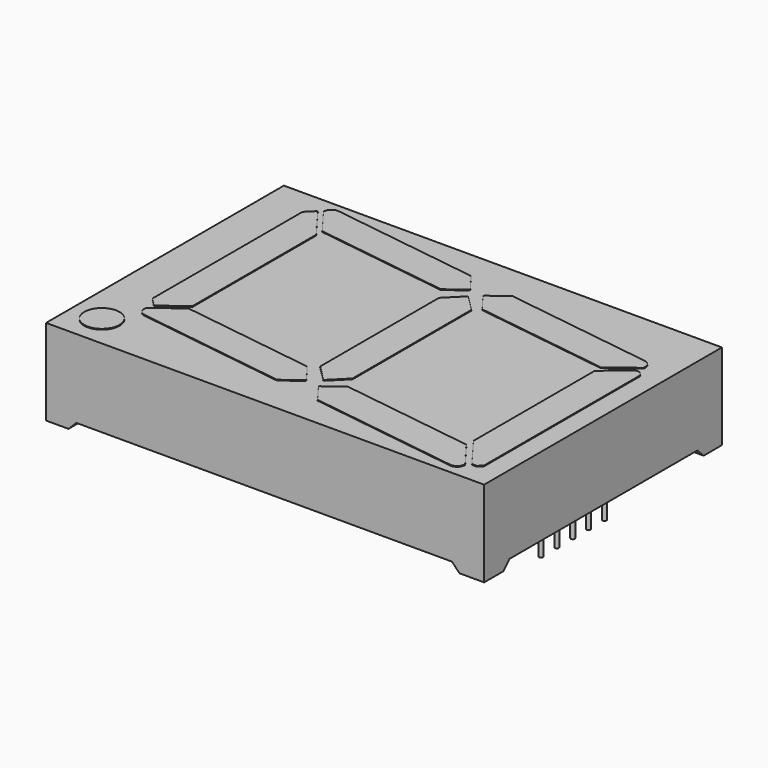
from build123d import *

# Parameters (mm, degrees)
CYLINDER_R                 = 0.25
CYLINDER_DEPTH             = 8
CYLINDER001_R              = 0.25
CYLINDER001_DEPTH          = 8
CYLINDER002_R              = 0.25
CYLINDER002_DEPTH          = 8
CYLINDER003_R              = 0.25
CYLINDER003_DEPTH          = 8
CYLINDER004_R              = 0.25
CYLINDER004_DEPTH          = 8
CYLINDER005_R              = 0.25
CYLINDER005_DEPTH          = 8
CYLINDER006_R              = 0.25
CYLINDER006_DEPTH          = 8
CYLINDER007_R              = 0.25
CYLINDER007_DEPTH          = 8
CYLINDER008_R              = 0.25
CYLINDER008_DEPTH          = 8
CYLINDER009_R              = 0.25
CYLINDER009_DEPTH          = 8
BOX001_W                   = 44
BOX001_H                   = 50
BOX001_DEPTH               = 2
CHAMFER002_SIZE            = 1
CHAMFER003_SIZE            = 1
CHAMFER003_PLACEMENT_ANGLE = -90
BOX_W                      = 32
BOX_H                      = 60
BOX_DEPTH                  = 2
CHAMFER_SIZE               = 1
CHAMFER001_SIZE            = 1
CHAMFER001_PLACEMENT_ANGLE = -90
SKETCH_W                   = 56
SKETCH_H                   = 38
PAD_DEPTH                  = 11
BOX002_W                   = 23
BOX002_H                   = 4.15
BOX002_DEPTH               = 1
CHAMFER018_SIZE            = 2
CHAMFER019_SIZE            = 2
CHAMFER020_SIZE            = 2
CHAMFER021_SIZE            = 2
BOX003_W                   = 4.15
BOX003_H                   = 22.25
BOX003_DEPTH               = 1
BOX003_PLACEMENT_ANGLE     = -8
CHAMFER006_SIZE            = 3
CHAMFER014_SIZE            = 2
CHAMFER015_SIZE            = 2
FILLET002_R                = 1
BOX005_W                   = 4.15
BOX005_H                   = 22.25
BOX005_DEPTH               = 1
BOX005_PLACEMENT_ANGLE     = -8
CHAMFER005_SIZE            = 3
FILLET001_R                = 1
CHAMFER010_SIZE            = 2
CHAMFER011_SIZE            = 2
BOX004_W                   = 4.15
BOX004_H                   = 22.25
BOX004_DEPTH               = 1
BOX004_PLACEMENT_ANGLE     = -8
CHAMFER004_SIZE            = 3
FILLET_R                   = 1
CHAMFER008_SIZE            = 2
CHAMFER009_SIZE            = 2
BOX006_W                   = 4.15
BOX006_H                   = 22.25
BOX006_DEPTH               = 1
BOX006_PLACEMENT_ANGLE     = -8
CHAMFER007_SIZE            = 3
CHAMFER012_SIZE            = 2
CHAMFER013_SIZE            = 2
FILLET003_R                = 1
BOX007_W                   = 26
BOX007_H                   = 4.15
BOX007_DEPTH               = 1
CHAMFER026_SIZE2           = 2.6
CHAMFER026_SIZE            = 3.2
CHAMFER027_SIZE            = 0.5
CHAMFER028_SIZE2           = 3
CHAMFER028_SIZE            = 4
CHAMFER029_SIZE            = 0.5
BOX008_W                   = 26
BOX008_H                   = 4.15
BOX008_DEPTH               = 1
CHAMFER022_SIZE2           = 4
CHAMFER022_SIZE            = 3
CHAMFER023_SIZE            = 1
CHAMFER024_SIZE2           = 3
CHAMFER024_SIZE            = 2.2
CHAMFER025_SIZE            = 1
CYLINDER010_R              = 2.25
CYLINDER010_DEPTH          = 1
FUSION_PLACEMENT_ANGLE     = -90


with BuildPart() as pin001:
    # Cylinder → Cylinder (new body)
    with BuildSketch(Plane.XY.offset(-4)):
        Circle(CYLINDER_R)
    extrude(amount=CYLINDER_DEPTH)


with BuildPart() as pin002:
    # Cylinder001 → Cylinder001 (new body)
    with BuildSketch(Plane(origin=(0, -2.54, -4), x_dir=(1, 0, 0), z_dir=(0, 0, 1))):
        Circle(CYLINDER001_R)
    extrude(amount=CYLINDER001_DEPTH)


with BuildPart() as pin003:
    # Cylinder002 → Cylinder002 (new body)
    with BuildSketch(Plane(origin=(0, -5.08, -4), x_dir=(1, 0, 0), z_dir=(0, 0, 1))):
        Circle(CYLINDER002_R)
    extrude(amount=CYLINDER002_DEPTH)


with BuildPart() as pin004:
    # Cylinder003 → Cylinder003 (new body)
    with BuildSketch(Plane(origin=(0, -7.62, -4), x_dir=(1, 0, 0), z_dir=(0, 0, 1))):
        Circle(CYLINDER003_R)
    extrude(amount=CYLINDER003_DEPTH)


with BuildPart() as pin005:
    # Cylinder004 → Cylinder004 (new body)
    with BuildSketch(Plane(origin=(0, -10.16, -4), x_dir=(1, 0, 0), z_dir=(0, 0, 1))):
        Circle(CYLINDER004_R)
    extrude(amount=CYLINDER004_DEPTH)


with BuildPart() as pin006:
    # Cylinder005 → Cylinder005 (new body)
    with BuildSketch(Plane(origin=(48.26, -10.16, -4), x_dir=(1, 0, 0), z_dir=(0, 0, 1))):
        Circle(CYLINDER005_R)
    extrude(amount=CYLINDER005_DEPTH)


with BuildPart() as pin007:
    # Cylinder006 → Cylinder006 (new body)
    with BuildSketch(Plane(origin=(48.26, -7.62, -4), x_dir=(1, 0, 0), z_dir=(0, 0, 1))):
        Circle(CYLINDER006_R)
    extrude(amount=CYLINDER006_DEPTH)


with BuildPart() as pin008:
    # Cylinder007 → Cylinder007 (new body)
    with BuildSketch(Plane(origin=(48.26, -5.08, -4), x_dir=(1, 0, 0), z_dir=(0, 0, 1))):
        Circle(CYLINDER007_R)
    extrude(amount=CYLINDER007_DEPTH)


with BuildPart() as pin009:
    # Cylinder008 → Cylinder008 (new body)
    with BuildSketch(Plane(origin=(48.26, -2.56, -4), x_dir=(1, 0, 0), z_dir=(0, 0, 1))):
        Circle(CYLINDER008_R)
    extrude(amount=CYLINDER008_DEPTH)


with BuildPart() as pin010:
    # Cylinder009 → Cylinder009 (new body)
    with BuildSketch(Plane(origin=(48.26, 0, -4), x_dir=(1, 0, 0), z_dir=(0, 0, 1))):
        Circle(CYLINDER009_R)
    extrude(amount=CYLINDER009_DEPTH)


with BuildPart() as chamfer003:
    # Box001 → Box001 (new body)
    with BuildSketch(Plane(origin=(-17, -1, -1), x_dir=(1, 0, 0), z_dir=(0, 0, 1))):
        with Locations((22, 25)):
            Rectangle(BOX001_W, BOX001_H)
    extrude(amount=BOX001_DEPTH)

    # Chamfer002
    chamfer002_edges = [chamfer003.edges().sort_by_distance(p)[0] for p in [
        (5, -1, 1),
    ]]
    chamfer(chamfer002_edges, length=CHAMFER002_SIZE)

    # Chamfer003
    chamfer003_edges = [chamfer003.edges().sort_by_distance(p)[0] for p in [
        (5, 49, 1),
    ]]
    chamfer(chamfer003_edges, length=CHAMFER003_SIZE)


with BuildPart() as chamfer003_1:
    # Chamfer003 placement: moved
    add(chamfer003.part.rotate(Axis((0, 0, 0), (0, 0, 1)), CHAMFER003_PLACEMENT_ANGLE))


with BuildPart() as chamfer001:
    # Box → Box (new body)
    with BuildSketch(Plane(origin=(-11, -6, -1), x_dir=(1, 0, 0), z_dir=(0, 0, 1))):
        with Locations((16, 30)):
            Rectangle(BOX_W, BOX_H)
    extrude(amount=BOX_DEPTH)

    # Chamfer
    chamfer_edges = [chamfer001.edges().sort_by_distance(p)[0] for p in [
        (21, 24, 1),
    ]]
    chamfer(chamfer_edges, length=CHAMFER_SIZE)

    # Chamfer001
    chamfer001_edges = [chamfer001.edges().sort_by_distance(p)[0] for p in [
        (-11, 24, 1),
    ]]
    chamfer(chamfer001_edges, length=CHAMFER001_SIZE)


with BuildPart() as chamfer001_1:
    # Chamfer001 placement: moved
    add(chamfer001.part.rotate(Axis((0, 0, 0), (0, 0, 1)), CHAMFER001_PLACEMENT_ANGLE))


with BuildPart() as cut001:
    # Sketch → Pad (new body)
    with BuildSketch(Plane.XY):
        with Locations((24.13, -5.08)):
            Rectangle(SKETCH_W, SKETCH_H)
    extrude(amount=PAD_DEPTH)

    # Cut: cut Chamfer001
    add(chamfer001_1.part, mode=Mode.SUBTRACT)

    # Cut001: cut Chamfer003
    add(chamfer003_1.part, mode=Mode.SUBTRACT)


with BuildPart() as chamfer021:
    # Box002 → Box002 (new body)
    with BuildSketch(Plane(origin=(21, 23, 10.1), x_dir=(1, 0, 0), z_dir=(0, 0, 1))):
        with Locations((11.5, 2.075)):
            Rectangle(BOX002_W, BOX002_H)
    extrude(amount=BOX002_DEPTH)

    # Chamfer018
    chamfer018_edges = [chamfer021.edges().sort_by_distance(p)[0] for p in [
        (21, 23, 10.6),
    ]]
    chamfer(chamfer018_edges, length=CHAMFER018_SIZE)

    # Chamfer019
    chamfer019_edges = [chamfer021.edges().sort_by_distance(p)[0] for p in [
        (21, 27.15, 10.6),
    ]]
    chamfer(chamfer019_edges, length=CHAMFER019_SIZE)

    # Chamfer020
    chamfer020_edges = [chamfer021.edges().sort_by_distance(p)[0] for p in [
        (44, 27.15, 10.6),
    ]]
    chamfer(chamfer020_edges, length=CHAMFER020_SIZE)

    # Chamfer021
    chamfer021_edges = [chamfer021.edges().sort_by_distance(p)[0] for p in [
        (44, 23, 10.6),
    ]]
    chamfer(chamfer021_edges, length=CHAMFER021_SIZE)


with BuildPart() as chamfer021_1:
    # Chamfer021 placement: moved
    add(chamfer021.part.moved(Location((-27.5, 0.5, 0))))


with BuildPart() as fillet002:
    # Box003 → Box003 (new body)
    with BuildSketch(Plane.XY):
        with Locations((2.075, 11.125)):
            Rectangle(BOX003_W, BOX003_H)
    extrude(amount=BOX003_DEPTH)


with BuildPart() as fillet002_1:
    # Box003 placement: moved
    add(fillet002.part.moved(Location((-10, 27, 10.1))).rotate(Axis((-10, 27, 10.1), (0, 0, 1)), BOX003_PLACEMENT_ANGLE))

    # Chamfer006
    chamfer006_edges = [fillet002_1.edges().sort_by_distance(p)[0] for p in [
        (-2.793786, 48.455896, 10.6),
    ]]
    chamfer(chamfer006_edges, length=CHAMFER006_SIZE)

    # Chamfer014
    chamfer014_edges = [fillet002_1.edges().sort_by_distance(p)[0] for p in [
        (-10, 27, 10.6),
    ]]
    chamfer(chamfer014_edges, length=CHAMFER014_SIZE)

    # Chamfer015
    chamfer015_edges = [fillet002_1.edges().sort_by_distance(p)[0] for p in [
        (-5.890388, 26.422432, 10.6),
    ]]
    chamfer(chamfer015_edges, length=CHAMFER015_SIZE)

    # Fillet002
    fillet002_edges = [fillet002_1.edges().sort_by_distance(p)[0] for p in [
        (-6.903399, 49.033465, 10.6),
    ]]
    fillet(fillet002_edges, radius=FILLET002_R)


with BuildPart() as fillet002_2:
    # Fillet002 placement: moved
    add(fillet002_1.part.moved(Location((0.35, 0, 0))))


with BuildPart() as chamfer011:
    # Box005 → Box005 (new body)
    with BuildSketch(Plane.XY):
        with Locations((2.075, 11.125)):
            Rectangle(BOX005_W, BOX005_H)
    extrude(amount=BOX005_DEPTH)


with BuildPart() as chamfer011_1:
    # Box005 placement: moved
    add(chamfer011.part.moved(Location((11, 3, 10.1))).rotate(Axis((11, 3, 10.1), (0, 0, 1)), BOX005_PLACEMENT_ANGLE))

    # Chamfer005
    chamfer005_edges = [chamfer011_1.edges().sort_by_distance(p)[0] for p in [
        (11, 3, 10.6),
    ]]
    chamfer(chamfer005_edges, length=CHAMFER005_SIZE)

    # Fillet001
    fillet001_edges = [chamfer011_1.edges().sort_by_distance(p)[0] for p in [
        (15.109612, 2.422432, 10.6),
    ]]
    fillet(fillet001_edges, radius=FILLET001_R)

    # Chamfer010
    chamfer010_edges = [chamfer011_1.edges().sort_by_distance(p)[0] for p in [
        (18.206214, 24.455896, 10.6),
    ]]
    chamfer(chamfer010_edges, length=CHAMFER010_SIZE)

    # Chamfer011
    chamfer011_edges = [chamfer011_1.edges().sort_by_distance(p)[0] for p in [
        (14.096601, 25.033465, 10.6),
    ]]
    chamfer(chamfer011_edges, length=CHAMFER011_SIZE)


with BuildPart() as chamfer011_2:
    # Chamfer011 placement: moved
    add(chamfer011_1.part.moved(Location((1.5, -0.55, 0))))


with BuildPart() as chamfer009:
    # Box004 → Box004 (new body)
    with BuildSketch(Plane.XY):
        with Locations((2.075, 11.125)):
            Rectangle(BOX004_W, BOX004_H)
    extrude(amount=BOX004_DEPTH)


with BuildPart() as chamfer009_1:
    # Box004 placement: moved
    add(chamfer009.part.moved(Location((-13, 3, 10.1))).rotate(Axis((-13, 3, 10.1), (0, 0, 1)), BOX004_PLACEMENT_ANGLE))

    # Chamfer004
    chamfer004_edges = [chamfer009_1.edges().sort_by_distance(p)[0] for p in [
        (-8.890388, 2.422432, 10.6),
    ]]
    chamfer(chamfer004_edges, length=CHAMFER004_SIZE)

    # Fillet
    fillet_edges = [chamfer009_1.edges().sort_by_distance(p)[0] for p in [
        (-13, 3, 10.6),
    ]]
    fillet(fillet_edges, radius=FILLET_R)

    # Chamfer008
    chamfer008_edges = [chamfer009_1.edges().sort_by_distance(p)[0] for p in [
        (-9.903399, 25.033465, 10.6),
    ]]
    chamfer(chamfer008_edges, length=CHAMFER008_SIZE)

    # Chamfer009
    chamfer009_edges = [chamfer009_1.edges().sort_by_distance(p)[0] for p in [
        (-5.793786, 24.455896, 10.6),
    ]]
    chamfer(chamfer009_edges, length=CHAMFER009_SIZE)


with BuildPart() as fillet003:
    # Box006 → Box006 (new body)
    with BuildSketch(Plane.XY):
        with Locations((2.075, 11.125)):
            Rectangle(BOX006_W, BOX006_H)
    extrude(amount=BOX006_DEPTH)


with BuildPart() as fillet003_1:
    # Box006 placement: moved
    add(fillet003.part.moved(Location((15, 27, 10.1))).rotate(Axis((15, 27, 10.1), (0, 0, 1)), BOX006_PLACEMENT_ANGLE))

    # Chamfer007
    chamfer007_edges = [fillet003_1.edges().sort_by_distance(p)[0] for p in [
        (18.096601, 49.033465, 10.6),
    ]]
    chamfer(chamfer007_edges, length=CHAMFER007_SIZE)

    # Chamfer012
    chamfer012_edges = [fillet003_1.edges().sort_by_distance(p)[0] for p in [
        (19.109612, 26.422432, 10.6),
    ]]
    chamfer(chamfer012_edges, length=CHAMFER012_SIZE)

    # Chamfer013
    chamfer013_edges = [fillet003_1.edges().sort_by_distance(p)[0] for p in [
        (15, 27, 10.6),
    ]]
    chamfer(chamfer013_edges, length=CHAMFER013_SIZE)

    # Fillet003
    fillet003_edges = [fillet003_1.edges().sort_by_distance(p)[0] for p in [
        (22.206214, 48.455896, 10.6),
    ]]
    fillet(fillet003_edges, radius=FILLET003_R)


with BuildPart() as fillet003_2:
    # Fillet003 placement: moved
    add(fillet003_1.part.moved(Location((0.9, -0.6, 0))))


with BuildPart() as chamfer029:
    # Box007 → Box007 (new body)
    with BuildSketch(Plane(origin=(-4.5, 45.5, 11.1), x_dir=(1, 0, 0), z_dir=(0, 0, 1))):
        with Locations((13, 2.075)):
            Rectangle(BOX007_W, BOX007_H)
    extrude(amount=BOX007_DEPTH)

    # Chamfer026
    chamfer026_edges = [chamfer029.edges().sort_by_distance(p)[0] for p in [
        (-4.5, 45.5, 11.6),
    ]]
    chamfer026_side = chamfer029.faces().sort_by_distance((-4.5, 47.575, 11.6))[0]
    chamfer(chamfer026_edges, length=CHAMFER026_SIZE, length2=CHAMFER026_SIZE2, reference=chamfer026_side)

    # Chamfer027
    chamfer027_edges = [chamfer029.edges().sort_by_distance(p)[0] for p in [
        (-4.5, 49.65, 11.6),
    ]]
    chamfer(chamfer027_edges, length=CHAMFER027_SIZE)

    # Chamfer028
    chamfer028_edges = [chamfer029.edges().sort_by_distance(p)[0] for p in [
        (21.5, 45.5, 11.6),
    ]]
    chamfer028_side = chamfer029.faces().sort_by_distance((9.8, 45.5, 11.6))[0]
    chamfer(chamfer028_edges, length=CHAMFER028_SIZE, length2=CHAMFER028_SIZE2, reference=chamfer028_side)

    # Chamfer029
    chamfer029_edges = [chamfer029.edges().sort_by_distance(p)[0] for p in [
        (21.5, 49.65, 11.6),
    ]]
    chamfer(chamfer029_edges, length=CHAMFER029_SIZE)


with BuildPart() as chamfer029_1:
    # Chamfer029 placement: moved
    add(chamfer029.part.moved(Location((0, 0, -1))))


with BuildPart() as chamfer025:
    # Box008 → Box008 (new body)
    with BuildSketch(Plane(origin=(-11.5, 1.25, 12.1), x_dir=(1, 0, 0), z_dir=(0, 0, 1))):
        with Locations((13, 2.075)):
            Rectangle(BOX008_W, BOX008_H)
    extrude(amount=BOX008_DEPTH)

    # Chamfer022
    chamfer022_edges = [chamfer025.edges().sort_by_distance(p)[0] for p in [
        (-11.5, 5.4, 12.6),
    ]]
    chamfer022_side = chamfer025.faces().sort_by_distance((-11.5, 3.325, 12.6))[0]
    chamfer(chamfer022_edges, length=CHAMFER022_SIZE, length2=CHAMFER022_SIZE2, reference=chamfer022_side)

    # Chamfer023
    chamfer023_edges = [chamfer025.edges().sort_by_distance(p)[0] for p in [
        (-11.5, 1.25, 12.6),
    ]]
    chamfer(chamfer023_edges, length=CHAMFER023_SIZE)

    # Chamfer024
    chamfer024_edges = [chamfer025.edges().sort_by_distance(p)[0] for p in [
        (14.5, 5.4, 12.6),
    ]]
    chamfer024_side = chamfer025.faces().sort_by_distance((3.5, 5.4, 12.6))[0]
    chamfer(chamfer024_edges, length=CHAMFER024_SIZE, length2=CHAMFER024_SIZE2, reference=chamfer024_side)

    # Chamfer025
    chamfer025_edges = [chamfer025.edges().sort_by_distance(p)[0] for p in [
        (14.5, 1.25, 12.6),
    ]]
    chamfer(chamfer025_edges, length=CHAMFER025_SIZE)


with BuildPart() as chamfer025_1:
    # Chamfer025 placement: moved
    add(chamfer025.part.moved(Location((0, 0, -2))))


with BuildPart() as digit001:
    # Cylinder010 → Cylinder010 (new body)
    with BuildSketch(Plane(origin=(20, 0, 10.1), x_dir=(1, 0, 0), z_dir=(0, 0, 1))):
        Circle(CYLINDER010_R)
    extrude(amount=CYLINDER010_DEPTH)

    # Fusion: union Chamfer021, Fillet002, Chamfer011, Chamfer009, Fillet003, Chamfer029, Chamfer025
    add(chamfer021_1.part)
    add(fillet002_2.part)
    add(chamfer011_2.part)
    add(chamfer009_1.part)
    add(fillet003_2.part)
    add(chamfer029_1.part)
    add(chamfer025_1.part)


with BuildPart() as digit001_1:
    # Fusion placement: moved
    add(digit001.part.rotate(Axis((0, 0, 0), (0, 0, 1)), FUSION_PLACEMENT_ANGLE))


solid = Compound([pin001.part, pin002.part, pin003.part, pin004.part, pin005.part, pin006.part, pin007.part, pin008.part, pin009.part, pin010.part, cut001.part, digit001_1.part])
